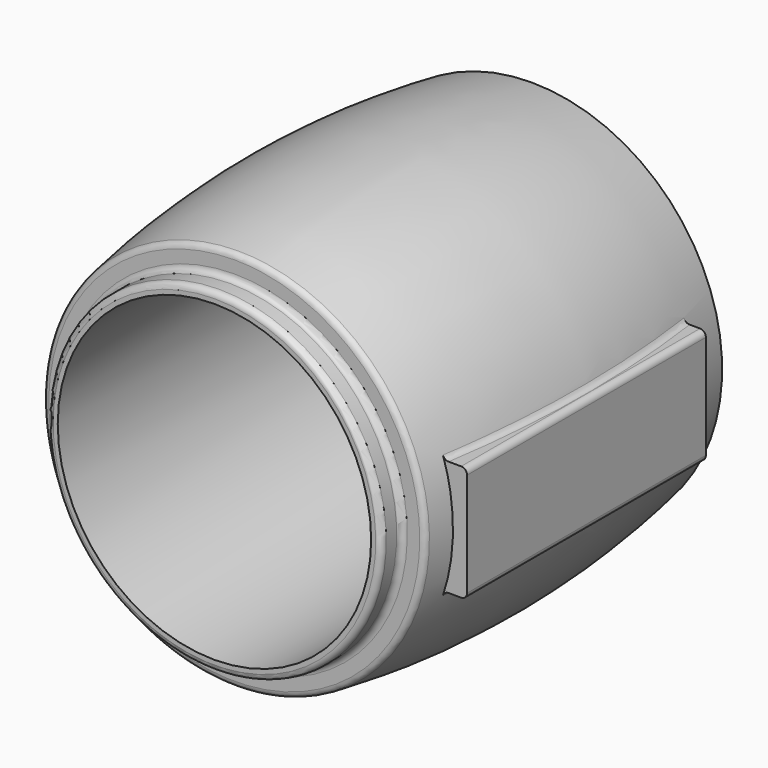
from build123d import *

# Parameters (mm, degrees)
F3_R      = 26.543
F4_DEPTH  = 114.554
F6_R      = 28.5434977465
F7_DEPTH  = 79.315283745
F9_R      = 33.8571196856
F9_R_2    = 28.5434977465
F10_DEPTH = 79.314283745
F14_R     = 1.27


with BuildPart() as f2:
    # F0 (on Right) → F2 (revolve)
    with BuildSketch(Plane.YZ):
        with BuildLine():
            Line((-76.2, 0), (0, 0))
            Line((0, 0), (0, 26.543))
            Line((0, 26.543), (6.289283745, 26.543))
            Line((6.289283745, 26.543), (6.289283745, 29.464))
            Line((6.289283745, 29.464), (9.4871073961, 36.8591547012))
            Line((9.4871073961, 36.8591547012), (9.4871073961, 41.1427468061))
            ThreePointArc((9.4871073961, 41.1427468061), (-30.6813567877, 44.6934809621), (-70.8498209715, 41.1427468061))
            Line((-70.8498209715, 41.1427468061), (-70.8498209715, 36.1197404563))
            Line((-70.8498209715, 36.1197404563), (-76.2, 36.1197404563))
            Line((-76.2, 36.1197404563), (-76.2, 0))
        make_face()
    revolve(axis=Axis((0, -94.0737053752, 0), (0, -1, 0)))

    # F3 (on face) → F4 (cut)
    with BuildSketch(Plane(origin=(0, 0, 0), x_dir=(-1, 0, 0), z_dir=(0, 1, 0))):
        Circle(F3_R)
    extrude(amount=-F4_DEPTH, mode=Mode.SUBTRACT)

    # F6 (on offset) → F7 (cut, through all)
    with BuildSketch(Plane(origin=(0, 3.114283745, 0), x_dir=(-1, 0, 0), z_dir=(0, 1, 0))):
        Circle(F6_R)
    extrude(amount=-F7_DEPTH, mode=Mode.SUBTRACT)

    # F9 (on face) → F10 (cut, through all)
    with BuildSketch(Plane.XZ.offset(76.2)):
        Circle(F9_R)
        Circle(F9_R_2, mode=Mode.SUBTRACT)
    extrude(amount=-F10_DEPTH, mode=Mode.SUBTRACT)

    # F12 (on offset) → F13 (join, up to the next surface of F2)
    with BuildSketch(Plane.YZ.offset(45.212)):
        Polygon((0, -12.4878594652), (0, 0), (0, 12.4878594652), (-64.4998209715, 12.4878594652), (-64.4998209715, -12.4878594652), align=None)
    extrude(until=Until.NEXT, dir=(-1, 0, 0))

    # F14
    f14_edges = [f2.edges().sort_by_distance(p)[0] for p in [
        (0, -76.2, -36.11974),
        (0, -70.849821, -36.11974),
        (0, -70.849821, -41.142747),
        (42.907689, -32.267195, 12.487859),
        (45.212, -32.24991, 12.487859),
        (45.212, -32.24991, -12.487859),
        (42.907689, -32.267195, -12.487859),
    ]]
    fillet(f14_edges, radius=F14_R)


solid = f2.part
